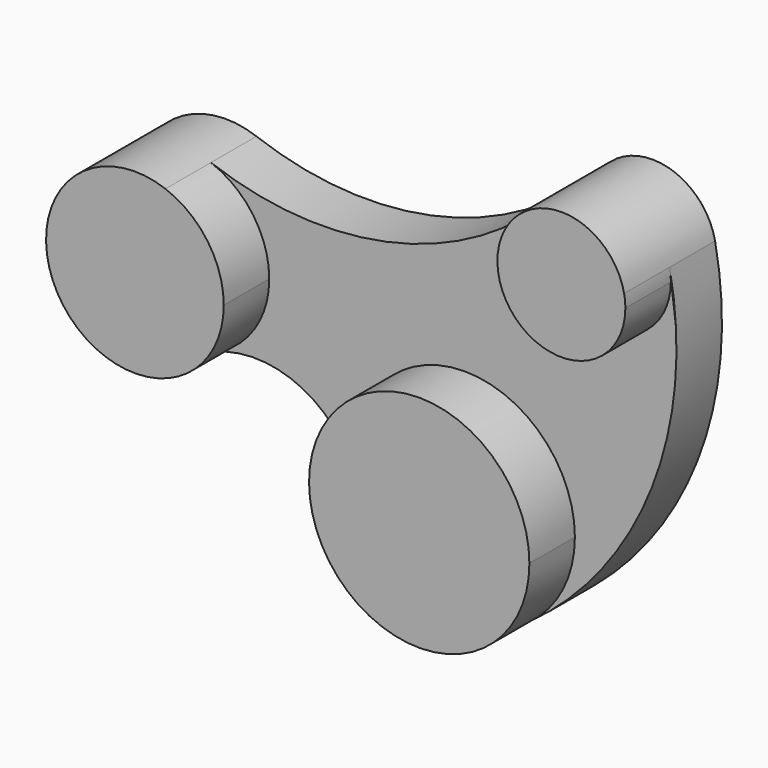
from build123d import *

# Parameters (mm, degrees)
F1_DEPTH = 8
F2_DEPTH = 16


with BuildPart() as f1:
    # F0 (on Front) → F1 (new body)
    with BuildSketch(Plane.XZ):
        with BuildLine():
            ThreePointArc((-15.030742, -3.785074), (-1.907026, 15.382238), (15.5, 0))
            ThreePointArc((15.5, 0), (13.801304, -7.05507), (9.077546, -12.563764))
            ThreePointArc((9.077546, -12.563764), (26.340159, 9.70085), (28.825457, 37.763889))
            ThreePointArc((28.825457, 37.763889), (28.956258, 36.886252), (29, 36))
            ThreePointArc((29, 36), (16.788487, 27.592492), (13.291959, 42.000182))
            ThreePointArc((13.291959, 42.000182), (-9.324676, 28.347049), (-35.70614, 29.739368))
            ThreePointArc((-35.70614, 29.739368), (-29.754922, 25.16159), (-27.5, 18))
            ThreePointArc((-27.5, 18), (-29.620363, 11.034863), (-35.262101, 6.432705))
            ThreePointArc((-35.262101, 6.432705), (-22.814416, 5.941222), (-15.030742, -3.785074))
        make_face()
    extrude(amount=F1_DEPTH)

    # F0 (on Front) → F2 (join)
    with BuildSketch(Plane.XZ):
        with BuildLine():
            ThreePointArc((-35.70614, 29.739368), (-52.497732, 17.761893), (-35.262101, 6.432705))
            ThreePointArc((-35.262101, 6.432705), (-29.620363, 11.034863), (-27.5, 18))
            ThreePointArc((-27.5, 18), (-29.754922, 25.16159), (-35.70614, 29.739368))
        make_face()
        with BuildLine():
            ThreePointArc((9.077546, -12.563764), (13.801304, -7.05507), (15.5, 0))
            ThreePointArc((15.5, 0), (-1.907026, 15.382238), (-15.030742, -3.785074))
            ThreePointArc((-15.030742, -3.785074), (-5.303441, -14.564461), (9.077546, -12.563764))
        make_face()
        with BuildLine():
            ThreePointArc((29, 36), (28.956258, 36.886252), (28.825457, 37.763889))
            ThreePointArc((28.825457, 37.763889), (22.367997, 44.682891), (13.291959, 42.000182))
            ThreePointArc((13.291959, 42.000182), (16.788487, 27.592492), (29, 36))
        make_face()
    extrude(amount=F2_DEPTH)


solid = f1.part
